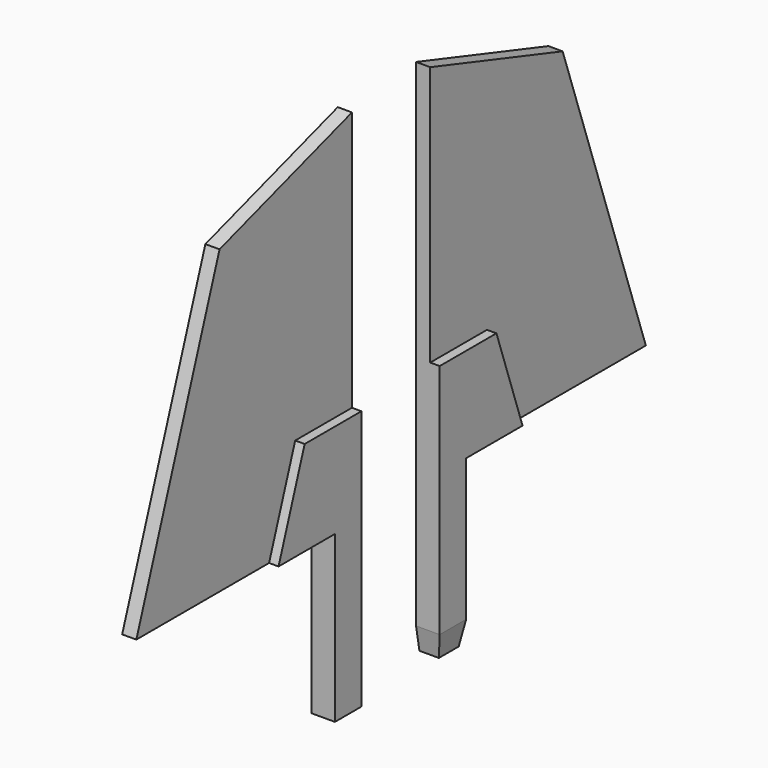
from build123d import *

# Parameters (mm, degrees)
F1_DEPTH = 5
F2_DEPTH = 3
F3_DEPTH = 5
F4_DEPTH = 3
F5_SIZE2 = 5
F5_SIZE  = 0.8816349035


with BuildPart() as f1:
    # F0 (on Right) → F1 (new body)
    with BuildSketch(Plane.YZ):
        Polygon((-17.3507910222, -9.7900601104), (-17.3507910222, -44.7900601104), (-10.3507910222, -44.7900601104), (-10.3507910222, 10.2099398896), (-25.3507910222, 10.2099398896), (-32.2552975324, -9.7900601104), align=None)
    extrude(amount=F1_DEPTH)

    # F0 (on Right) → F2 (join)
    with BuildSketch(Plane.YZ):
        Polygon((-25.3507910222, 10.2099398896), (-10.3507910222, 10.2099398896), (-10.3507910222, 65.2099398896), (-45.3507910222, 53.936434947), (-67.3507910222, -9.7900601104), (-32.2552975324, -9.7900601104), align=None)
    extrude(amount=F2_DEPTH)


with BuildPart() as f3:
    # F0 (on Right) → F3 (new body)
    with BuildSketch(Plane.YZ):
        Polygon((10.3507910222, 10.2099398896), (10.3507910222, -44.7900601104), (17.3507910222, -44.7900601104), (17.3507910222, -9.7900601104), (32.2552975324, -9.7900601104), (25.3507910222, 10.2099398896), align=None)
    extrude(amount=F3_DEPTH)

    # F0 (on Right) → F4 (join)
    with BuildSketch(Plane.YZ):
        Polygon((10.3507910222, 65.2099398896), (10.3507910222, 10.2099398896), (25.3507910222, 10.2099398896), (32.2552975324, -9.7900601104), (67.3507910222, -9.7900601104), (45.3507910222, 53.936434947), align=None)
    extrude(amount=F4_DEPTH)

    # F5
    f5_edges = [f3.edges().sort_by_distance(p)[0] for p in [
        (2.5, 17.350791, -44.79006),
        (5, 13.850791, -44.79006),
        (2.5, 10.350791, -44.79006),
    ]]
    f5_side = f3.faces().sort_by_distance((2.5, 13.850791, -44.79006))[0]
    chamfer(f5_edges, length=F5_SIZE, length2=F5_SIZE2, reference=f5_side)


solid = Compound([f1.part, f3.part])
